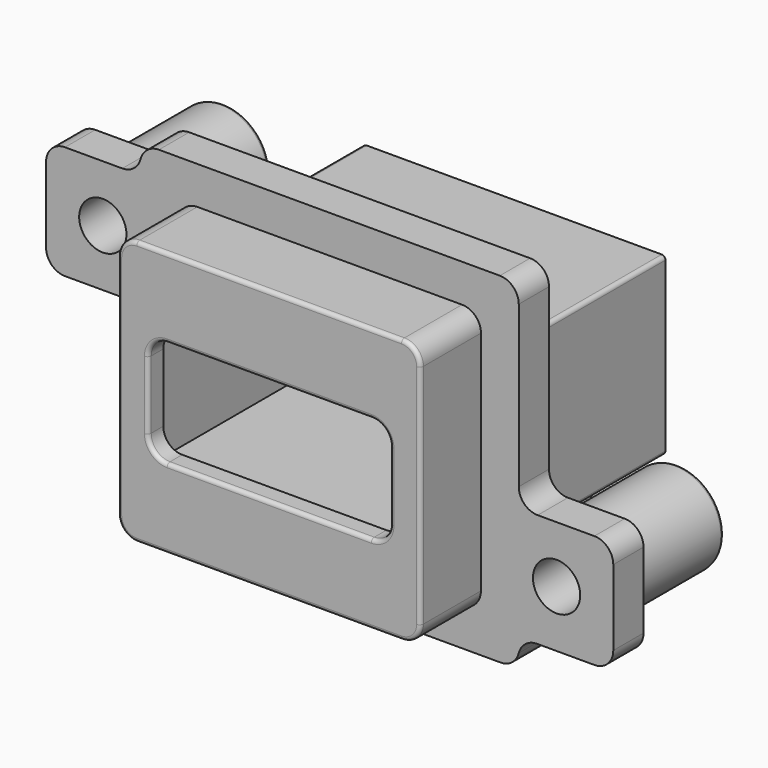
from build123d import *

# Parameters (mm, degrees)
PAD_DEPTH       = 2
PAD001_DEPTH    = 4
PAD002_DEPTH    = 12.2
SKETCH003_W     = 15
SKETCH003_H     = 8.28
POCKET_DEPTH    = 15.2
SKETCH004_R     = 2.45
PAD003_DEPTH    = 8
SKETCH005_R     = 1.25
POCKET001_DEPTH = 5.5
POCKET002_DEPTH = 4.001
PAD004_DEPTH    = 2.5
POCKET003_DEPTH = 1
FILLET_R        = 0.2


with BuildPart() as part:
    # Sketch → Pad (new body)
    with BuildSketch(Plane.XZ):
        with BuildLine():
            Line((9, 13.64), (-9.031757, 13.64))
            ThreePointArc((-9.031757, 13.64), (-9.644125, 13.430572), (-10, 12.890009))
            ThreePointArc((-10.968248, 12.14), (-10.355872, 12.349434), (-10, 12.890009))
            Line((-10.968248, 12.14), (-14, 12.14))
            ThreePointArc((-14, 12.14), (-14.707107, 11.847107), (-15, 11.14))
            Line((-15, 11.14), (-15, 7.14))
            ThreePointArc((-15, 7.14), (-14.707107, 6.432893), (-14, 6.14))
            Line((-14, 6.14), (-11, 6.14))
            ThreePointArc((-10, 5.14), (-10.292893, 5.847107), (-11, 6.14))
            Line((-10, 5.14), (-10, -3.36))
            ThreePointArc((-10, -3.36), (-9.707107, -4.067107), (-9, -4.36))
            Line((-9, -4.36), (9.031755, -4.36))
            ThreePointArc((9.031755, -4.36), (9.644126, -4.150571), (10, -3.610004))
            ThreePointArc((10.968247, -2.86), (10.355873, -3.069432), (10, -3.610004))
            Line((10.968247, -2.86), (14, -2.86))
            ThreePointArc((14, -2.86), (14.707107, -2.567107), (15, -1.86))
            Line((15, -1.86), (15, 2.14))
            ThreePointArc((15, 2.14), (14.707107, 2.847107), (14, 3.14))
            Line((14, 3.14), (11, 3.14))
            ThreePointArc((10, 4.14), (10.292893, 3.432893), (11, 3.14))
            Line((10, 4.14), (10, 12.64))
            ThreePointArc((10, 12.64), (9.707107, 13.347107), (9, 13.64))
        make_face()
    extrude(amount=-PAD_DEPTH)

    # Sketch001 → Pad001 (join)
    with BuildSketch(Plane.XZ):
        with BuildLine():
            Line((-7, 11.64), (7, 11.64))
            ThreePointArc((8, 10.64), (7.707107, 11.347107), (7, 11.64))
            Line((8, 10.64), (8, -1.36))
            ThreePointArc((7, -2.36), (7.707107, -2.067107), (8, -1.36))
            Line((7, -2.36), (-7, -2.36))
            ThreePointArc((-8, -1.36), (-7.707107, -2.067107), (-7, -2.36))
            Line((-8, -1.36), (-8, 10.64))
            ThreePointArc((-7, 11.64), (-7.707107, 11.347107), (-8, 10.64))
        make_face()
    extrude(amount=PAD001_DEPTH)

    # Sketch002 → Pad002 (join)
    with BuildSketch(Plane.XZ):
        with BuildLine():
            Line((-7.8, 0), (7.8, 0))
            ThreePointArc((7.8, 0), (7.941421, 0.058579), (8, 0.2))
            Line((8, 0.2), (8, 9.08))
            ThreePointArc((8, 9.08), (7.941421, 9.221421), (7.8, 9.28))
            Line((7.8, 9.28), (-7.8, 9.28))
            ThreePointArc((-7.8, 9.28), (-7.941421, 9.221421), (-8, 9.08))
            Line((-8, 9.08), (-8, 0.2))
            ThreePointArc((-8, 0.2), (-7.941421, 0.058579), (-7.8, 0))
        make_face()
    extrude(amount=-PAD002_DEPTH)

    # Sketch003 → Pocket (cut)
    with BuildSketch(Plane.XZ.offset(-12.2)):
        with Locations((0, 4.64)):
            Rectangle(SKETCH003_W, SKETCH003_H)
    extrude(amount=POCKET_DEPTH, mode=Mode.SUBTRACT)

    # Sketch004 → Pad003 (join)
    with BuildSketch(Plane.XZ):
        with Locations((-12, 9.14)):
            Circle(SKETCH004_R)
        with Locations((12, 0.14)):
            Circle(SKETCH004_R)
    extrude(amount=-PAD003_DEPTH)

    # Sketch005 → Pocket001 (cut)
    with BuildSketch(Plane.XZ):
        with Locations((-12, 9.14)):
            Circle(SKETCH005_R)
        with Locations((12, 0.14)):
            Circle(SKETCH005_R)
    extrude(amount=-POCKET001_DEPTH, mode=Mode.SUBTRACT)

    # Sketch006 → Pocket002 (cut, through all)
    with BuildSketch(Plane.XZ):
        with BuildLine():
            Line((-5.4, 7.44), (5.4, 7.44))
            ThreePointArc((6.4, 6.44), (6.107107, 7.147107), (5.4, 7.44))
            Line((6.4, 6.44), (6.4, 2.84))
            ThreePointArc((5.4, 1.84), (6.107107, 2.132893), (6.4, 2.84))
            Line((5.4, 1.84), (-5.4, 1.84))
            ThreePointArc((-6.4, 2.84), (-6.107107, 2.132893), (-5.4, 1.84))
            Line((-6.4, 2.84), (-6.4, 6.44))
            ThreePointArc((-5.4, 7.44), (-6.107107, 7.147107), (-6.4, 6.44))
        make_face()
    extrude(amount=POCKET002_DEPTH, mode=Mode.SUBTRACT)

    # Sketch007 → Pad004 (join)
    with BuildSketch(Plane.XY):
        Polygon((-6.57, 8.82), (-7.57, 7.67), (-6.57, 6.52), (-5.57, 7.67), align=None)
        Polygon((6.57, 8.67), (5.42, 7.67), (6.57, 6.67), (7.72, 7.67), align=None)
    extrude(amount=-PAD004_DEPTH)

    # Sketch008 → Pocket003 (cut)
    with BuildSketch(Plane.XY):
        with BuildLine():
            Line((-5.75, 12.2), (5.75, 12.2))
            Line((5.75, 12.2), (5.75, 10.2))
            ThreePointArc((4.75, 9.2), (5.457107, 9.492893), (5.75, 10.2))
            Line((4.75, 9.2), (-4.75, 9.2))
            ThreePointArc((-5.75, 10.2), (-5.457107, 9.492893), (-4.75, 9.2))
            Line((-5.75, 10.2), (-5.75, 12.2))
        make_face()
    extrude(amount=POCKET003_DEPTH, mode=Mode.SUBTRACT)

    # Fillet
    fillet_edges = [part.edges().sort_by_distance(p)[0] for p in [
        (0, -4, 11.64),
        (0, -4, 7.44),
        (-14.45, 8, 9.14),
        (9.55, 8, 0.14),
    ]]
    fillet(fillet_edges, radius=FILLET_R)


solid = part.part
